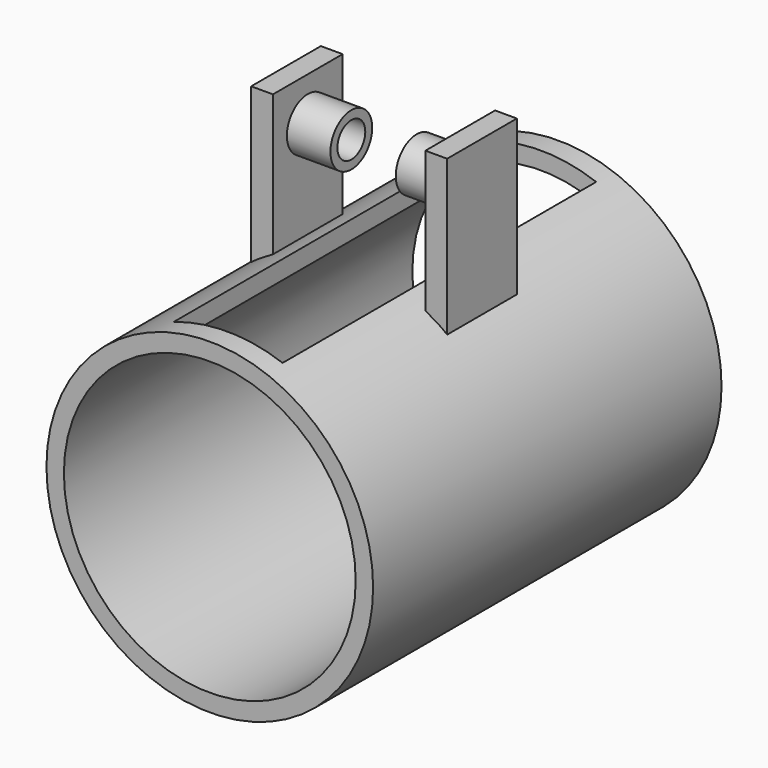
from build123d import *

# Parameters (mm, degrees)
F0_R      = 152.4
F0_R_2    = 101.6
F1_DEPTH  = 508
F2_DEPTH  = 190.5
F4_W      = 508
F4_H      = 635
F4_H_2    = 508
F6_DEPTH  = 63.5
F8_W      = 508
F8_H      = 863.6
F8_H_2    = 279.4
F9_DEPTH  = 63.5
F5_R      = 952.5
F5_R_2    = 850.9
F10_DEPTH = 1270
F11_DEPTH = 1270.001
F12_DEPTH = 1270.001
F14_W     = 635
F14_H     = 2286
F15_DEPTH = 508


with BuildPart() as f1:
    # F0 (on Right) → F1 (new body, symmetric)
    with BuildSketch(Plane.YZ):
        with Locations((0, -114.3)):
            Circle(F0_R)
        with Locations((0, -114.3)):
            Circle(F0_R_2, mode=Mode.SUBTRACT)
    extrude(amount=F1_DEPTH, both=True)

    # F0 (on Right) → F2 (cut, symmetric)
    with BuildSketch(Plane.YZ):
        with Locations((0, -114.3)):
            Circle(F0_R)
        with Locations((0, -114.3)):
            Circle(F0_R_2, mode=Mode.SUBTRACT)
    extrude(amount=F2_DEPTH, both=True, mode=Mode.SUBTRACT)

    # F4 (on offset) → F6 (join, symmetric)
    with BuildSketch(Plane.YZ.offset(508)):
        with Locations((0, -685.8)):
            Rectangle(F4_W, F4_H)
        with Locations((0, -114.3)):
            Rectangle(F4_W, F4_H_2)
    extrude(amount=F6_DEPTH, both=True)

    # F8 (on offset) → F9 (join, symmetric)
    with BuildSketch(Plane.YZ.offset(-508)):
        with Locations((0, -571.5)):
            Rectangle(F8_W, F8_H)
        Rectangle(F8_W, F8_H_2)
    extrude(amount=F9_DEPTH, both=True)

    # F5 (on Front) → F11 (cut, through all)
    with BuildSketch(Plane.XZ):
        with Locations((0, -1524)):
            Circle(F5_R_2)
    extrude(amount=-F11_DEPTH, mode=Mode.SUBTRACT)

    # F5 (on Front) → F12 (cut, through all)
    with BuildSketch(Plane.XZ):
        with Locations((0, -1524)):
            Circle(F5_R_2)
    extrude(amount=F12_DEPTH, mode=Mode.SUBTRACT)


with BuildPart() as f10:
    # F5 (on Front) → F10 (new body, symmetric)
    with BuildSketch(Plane.XZ):
        with Locations((0, -1524)):
            Circle(F5_R)
        with Locations((0, -1524)):
            Circle(F5_R_2, mode=Mode.SUBTRACT)
    extrude(amount=F10_DEPTH, both=True)

    # F14 (on offset) → F15 (cut)
    with BuildSketch(Plane.XY.offset(-381)):
        with Locations((5.657432, 0)):
            Rectangle(F14_W, F14_H)
    extrude(amount=-F15_DEPTH, mode=Mode.SUBTRACT)


solid = Compound([f1.part, f10.part])
